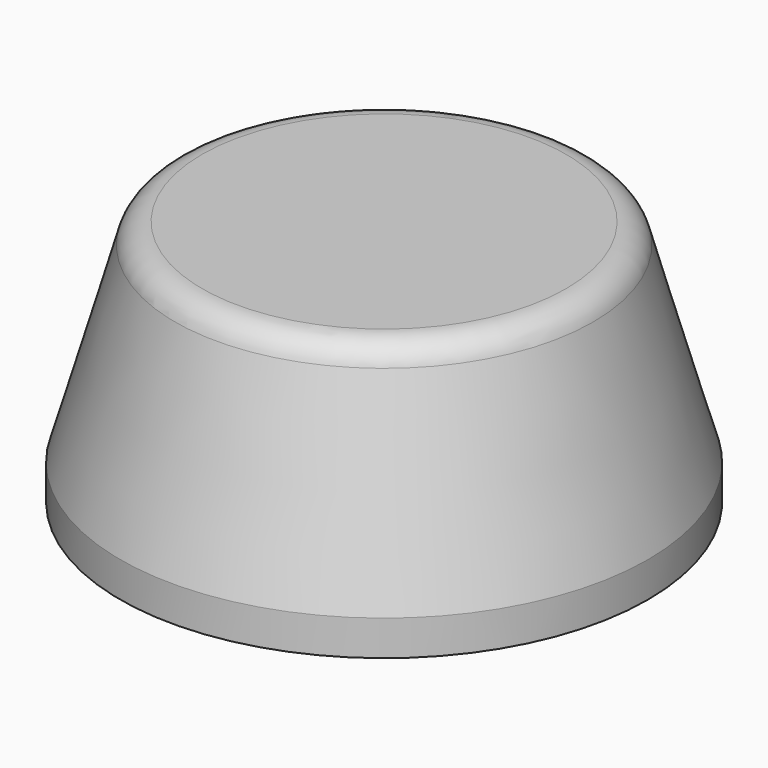
from build123d import *


with BuildPart() as f1:
    # F0 (on Front) → F1 (revolve)
    with BuildSketch(Plane.XZ):
        with BuildLine():
            Line((6.446389, 8.75), (0, 8.75))
            Line((0, 8.75), (0, 1.25))
            Line((0, 1.25), (7.5, 1.25))
            Line((7.5, 1.25), (7.5, 0))
            Line((7.5, 0), (9.35, 0))
            Line((9.35, 0), (9.35, 1.25))
            Line((9.35, 1.25), (7.407671, 8.025567))
            ThreePointArc((7.407671, 8.025567), (7.048233, 8.548614), (6.446389, 8.75))
        make_face()
    revolve(axis=Axis((0, 0, 5), (0, 0, 1)))


solid = f1.part
